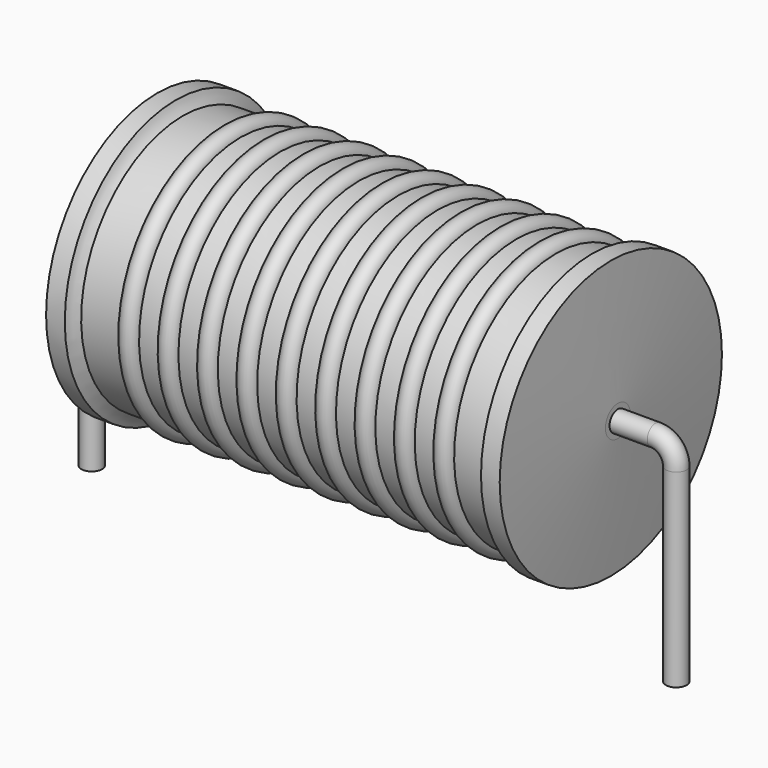
from build123d import *

# Parameters (mm, degrees)
SKETCH_R = 0.45


with BuildPart() as sweep_body:
    # Sweep: sweep along a path in Sketch001
    with BuildLine(Plane.XZ) as sweep_path:
        Line((0, -3), (0, 5.235))
        ThreePointArc((0, 5.235), (0.263601, 5.871393), (0.899991, 6.135))
        Line((0.899991, 6.135), (24.5, 6.135))
        ThreePointArc((24.5, 6.135), (25.136396, 5.871396), (25.4, 5.235))
        Line((25.4, 5.235), (25.4, -3))
    # Sketch → Sweep (sweep)
    with BuildSketch(Plane.XY.offset(-2)):
        Circle(SKETCH_R)
    sweep(path=sweep_path.line)


with BuildPart() as revolution:
    # Sketch002 → Revolution (revolve)
    with BuildSketch(Plane.XZ):
        with BuildLine():
            Line((2.8448, 12.17), (3.6576, 12.17))
            ThreePointArc((3.6576, 12.17), (3.78271, 11.899626), (3.9624, 11.662))
            Line((3.9624, 11.662), (21.4376, 11.662))
            ThreePointArc((21.4376, 11.662), (21.61729, 11.899626), (21.7424, 12.17))
            Line((21.7424, 12.17), (22.5552, 12.17))
            ThreePointArc((22.86, 6.81), (22.723014, 9.490877), (22.5552, 12.17))
            Line((22.86, 6.135), (22.86, 6.81))
            Line((2.54, 6.135), (22.86, 6.135))
            Line((2.54, 6.135), (2.54, 6.81))
            ThreePointArc((2.8448, 12.17), (2.676986, 9.490877), (2.54, 6.81))
        make_face()
    revolve(axis=Axis((2.54, 0, 6.135), (1, 0, 0)))


with BuildPart() as obj1:
    # Sketch003 → Revolution001 (revolve)
    with BuildSketch(Plane.XZ):
        with BuildLine():
            ThreePointArc((6.486358, 11.58072), (6.058568, 12.008509), (5.630779, 11.58072))
            Line((4.7752, 11.58072), (5.630779, 11.58072))
            Line((4.7752, 11.58072), (4.7752, 10.37372))
            Line((4.7752, 10.37372), (21.0312, 10.37372))
            Line((21.0312, 10.37372), (21.0312, 11.58072))
            Line((20.175621, 11.58072), (21.0312, 11.58072))
            ThreePointArc((20.175621, 11.58072), (19.747832, 12.008509), (19.320042, 11.58072))
            Line((18.464463, 11.58072), (19.320042, 11.58072))
            ThreePointArc((18.464463, 11.58072), (18.036674, 12.008509), (17.608884, 11.58072))
            Line((16.753305, 11.58072), (17.608884, 11.58072))
            ThreePointArc((16.753305, 11.58072), (16.325516, 12.008509), (15.897726, 11.58072))
            Line((15.042147, 11.58072), (15.897726, 11.58072))
            ThreePointArc((15.042147, 11.58072), (14.614358, 12.008509), (14.186568, 11.58072))
            Line((13.330989, 11.58072), (14.186568, 11.58072))
            ThreePointArc((13.330989, 11.58072), (12.9032, 12.008509), (12.475411, 11.58072))
            Line((11.619832, 11.58072), (12.475411, 11.58072))
            ThreePointArc((11.619832, 11.58072), (11.192042, 12.008509), (10.764253, 11.58072))
            Line((9.908674, 11.58072), (10.764253, 11.58072))
            ThreePointArc((9.908674, 11.58072), (9.480884, 12.008509), (9.053095, 11.58072))
            Line((8.197516, 11.58072), (9.053095, 11.58072))
            ThreePointArc((8.197516, 11.58072), (7.769726, 12.008509), (7.341937, 11.58072))
            Line((6.486358, 11.58072), (7.341937, 11.58072))
        make_face()
    revolve(axis=Axis((3.048, 0, 6.135), (1, 0, 0)))

    # obj1: union Sweep body, Revolution
    add(sweep_body.part)
    add(revolution.part)


solid = obj1.part
